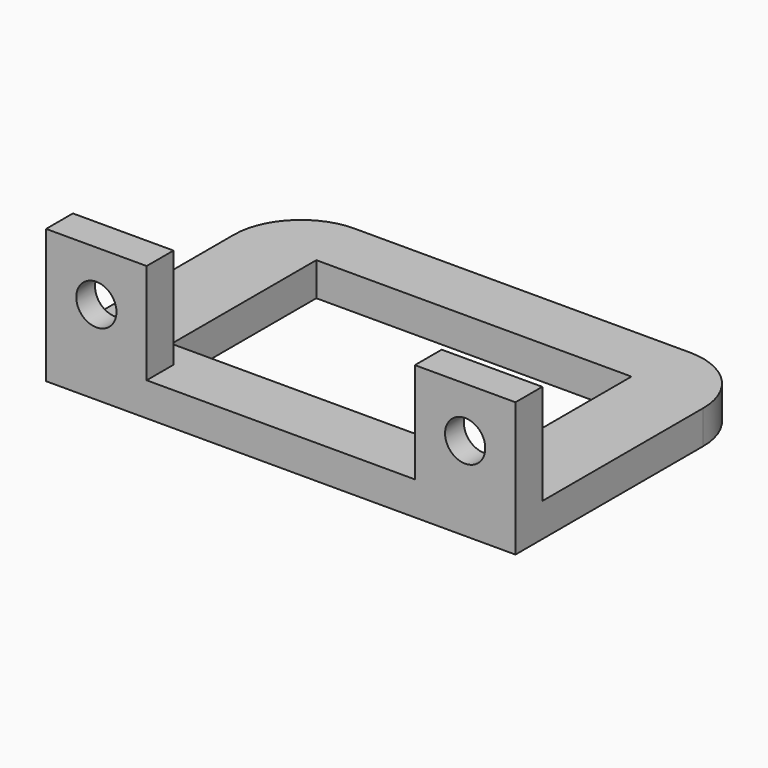
from build123d import *

# Parameters (mm, degrees)
F1_DEPTH = 5
F2_W     = 47
F2_H     = 27
F3_DEPTH = 25
F4_W     = 15
F4_H     = 5
F5_DEPTH = 15
F6_R     = 3
F7_DEPTH = 25
F6_R_2   = 5
F8_DEPTH = 1.5


with BuildPart() as f1:
    # F0 (on Top) → F1 (new body)
    with BuildSketch(Plane.XY):
        with BuildLine():
            Line((-35, -22.5), (35, -22.5))
            Line((35, -22.5), (35, 12.5))
            ThreePointArc((35, 12.5), (32.071068, 19.571068), (25, 22.5))
            Line((25, 22.5), (-25, 22.5))
            ThreePointArc((-25, 22.5), (-32.071068, 19.571068), (-35, 12.5))
            Line((-35, 12.5), (-35, -22.5))
        make_face()
    extrude(amount=F1_DEPTH)

    # F2 (on Top) → F3 (cut)
    with BuildSketch(Plane.XY):
        Rectangle(F2_W, F2_H)
    extrude(amount=F3_DEPTH, mode=Mode.SUBTRACT)

    # F4 (on face) → F5 (join)
    with BuildSketch(Plane.XY.offset(5)):
        with Locations((-27.5, -20)):
            Rectangle(F4_W, F4_H)
        with Locations((27.5, -20)):
            Rectangle(F4_W, F4_H)
    extrude(amount=F5_DEPTH)

    # F6 (on face) → F7 (cut)
    with BuildSketch(Plane(origin=(0, -17.5, 0), x_dir=(-1, 0, 0), z_dir=(0, 1, 0))):
        with Locations((27.5, 12.5)):
            Circle(F6_R)
        with Locations((-27.5, 12.5)):
            Circle(F6_R)
    extrude(amount=-F7_DEPTH, mode=Mode.SUBTRACT)

    # F6 (on face) → F8 (cut)
    with BuildSketch(Plane(origin=(0, -17.5, 0), x_dir=(-1, 0, 0), z_dir=(0, 1, 0))):
        with Locations((27.5, 12.5)):
            Circle(F6_R_2)
        with Locations((27.5, 12.5)):
            Circle(F6_R, mode=Mode.SUBTRACT)
        with Locations((-27.5, 12.5)):
            Circle(F6_R_2)
        with Locations((-27.5, 12.5)):
            Circle(F6_R, mode=Mode.SUBTRACT)
    extrude(amount=-F8_DEPTH, mode=Mode.SUBTRACT)


solid = f1.part
